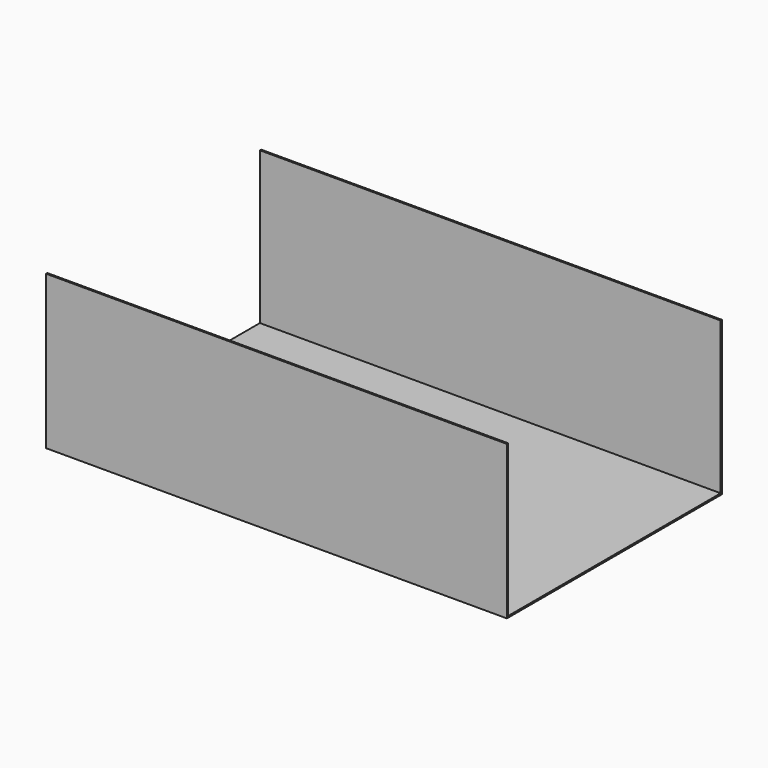
from build123d import *

# Parameters (mm, degrees)
PAD_DEPTH = 152.4


with BuildPart() as part:
    # Sketch → Pad (new body, symmetric)
    with BuildSketch(Plane.YZ):
        Polygon((-88.9, 100.584), (-88.9, -1.016), (88.9, -1.016), (88.9, 100.584), (87.884, 100.584), (87.884, 0), (-87.884, 0), (-87.884, 100.584), align=None)
    extrude(amount=PAD_DEPTH, both=True)


solid = part.part
